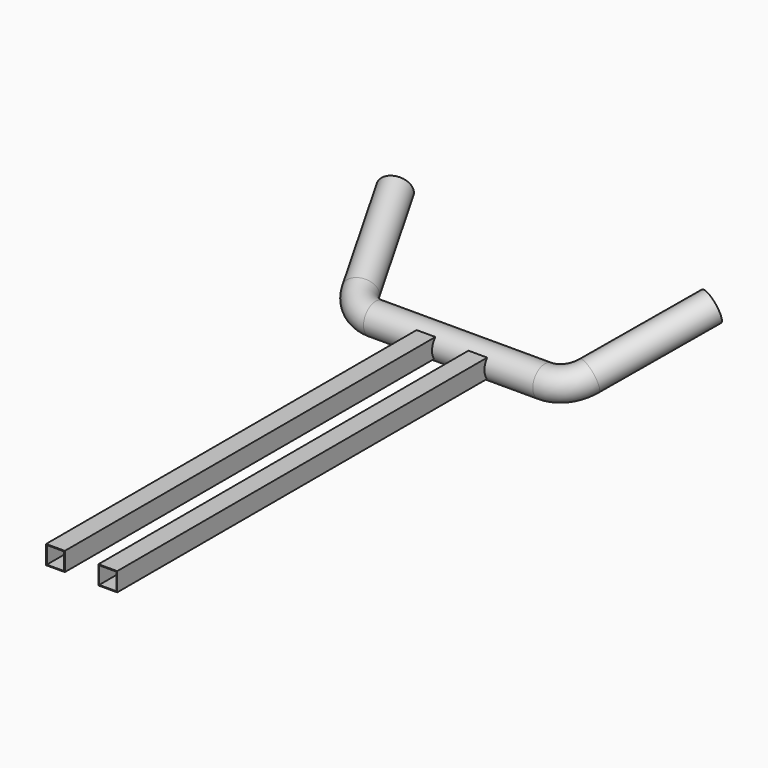
from build123d import *

# Parameters (mm, degrees)
F0_W        = 50.8
F0_H        = 50.8
F0_W_2      = 46.735998857
F0_H_2      = 46.735998857
F3_DEPTH    = 1270
F4_DEPTH    = 1270
F7_R        = 40.9089605838
F7_R_2      = 36.0829606652
F8_FACE_R   = 40.9089605838
F8_FACE_R_2 = 36.0829606652


with BuildPart() as f3:
    # F0 (on Front) → F3 (new body)
    with BuildSketch(Plane.XZ):
        with Locations((-69.0816907868, 2.7228489794)):
            Rectangle(F0_W, F0_H)
        with Locations((-69.0816907868, 2.7228489794)):
            Rectangle(F0_W_2, F0_H_2, mode=Mode.SUBTRACT)
    extrude(amount=F3_DEPTH)


with BuildPart() as f4:
    # F0 (on Front) → F4 (new body)
    with BuildSketch(Plane.XZ):
        with Locations((72.9048199296, 0.5465193272)):
            Rectangle(F0_W, F0_H)
        with Locations((72.9048199296, 0.5465193272)):
            Rectangle(F0_W_2, F0_H_2, mode=Mode.SUBTRACT)
    extrude(amount=F4_DEPTH)


with BuildPart() as f8:
    # F8: sweep along a path in F5
    with BuildLine(Plane(origin=(0, 0, 0), x_dir=(1, 0, 0), z_dir=(0, -0.3420201433, 0.9396926208))) as f8_path:
        Line((229.3559585548, 0), (-229.3559585548, 0))
        ThreePointArc((-229.3559585548, 0), (-285.5495047903, 16.9545904288), (-322.9883549399, 62.1597369789))
        Line((-322.9883549399, 62.1597369789), (-441.9681850478, 344.6215098261))
    # F7 (on plane+point) → F8 (sweep)
    with BuildSketch(Plane.YZ.offset(229.3559585548)):
        with Locations((15.1888076216, 0)):
            Circle(F7_R)
        with Locations((15.1888076216, 0)):
            Circle(F7_R_2, mode=Mode.SUBTRACT)
    sweep(path=f8_path.line)

    # F9: sweep along a path in F5
    with BuildLine(Plane(origin=(0, 0, 0), x_dir=(1, 0, 0), z_dir=(0, -0.3420201433, 0.9396926208))) as f9_path:
        ThreePointArc((229.3559585548, 0), (285.5495047903, 16.9545904288), (322.9883549399, 62.1597369789))
        Line((322.9883549399, 62.1597369789), (441.9681850478, 344.6215098261))
    # F8_face (on face) → F9 (sweep)
    with BuildSketch(Plane(origin=(229.3559585548, 15.1888076216, 0), x_dir=(0, 1, 0), z_dir=(1, 0, 0))):
        Circle(F8_FACE_R)
        Circle(F8_FACE_R_2, mode=Mode.SUBTRACT)
    sweep(path=f9_path.line)


solid = Compound([f3.part, f4.part, f8.part])
